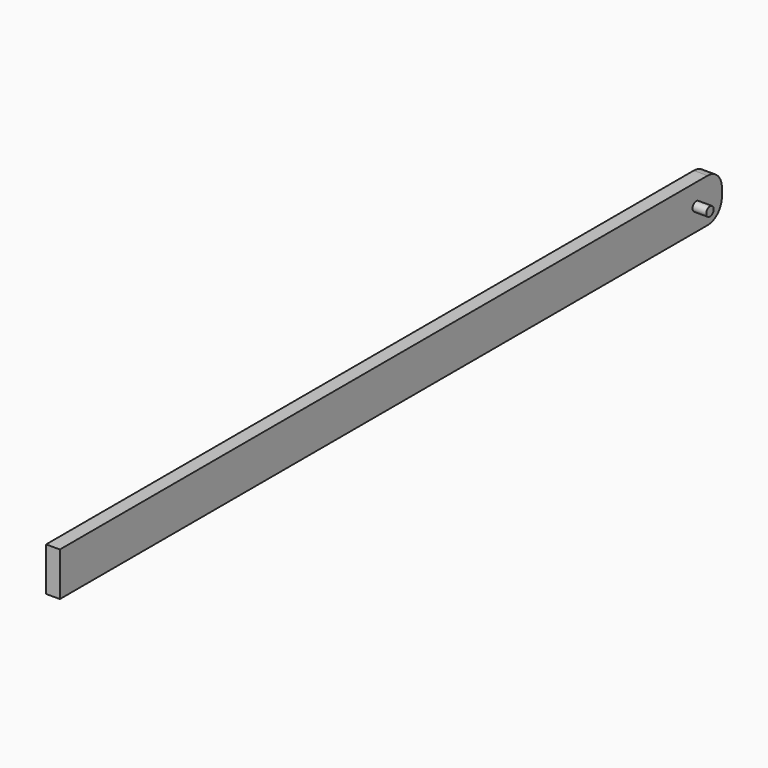
from build123d import *

# Parameters (mm, degrees)
F0_W     = 4572
F0_H     = 241.3
F1_DEPTH = 76.2
F2_R     = 25.4
F3_DEPTH = 76.2
F4_R     = 99.06


with BuildPart() as f1:
    # F0 (on Right) → F1 (new body)
    with BuildSketch(Plane.YZ):
        with Locations((-2108.2, -3.433317)):
            Rectangle(F0_W, F0_H)
    extrude(amount=-F1_DEPTH)

    # F2 (on face) → F3 (join)
    with BuildSketch(Plane.YZ):
        Circle(F2_R)
    extrude(amount=F3_DEPTH)

    # F4
    f4_edges = [f1.edges().sort_by_distance(p)[0] for p in [
        (-38.1, 177.8, 117.216683),
        (-38.1, 177.8, -124.083317),
    ]]
    fillet(f4_edges, radius=F4_R)


solid = f1.part
